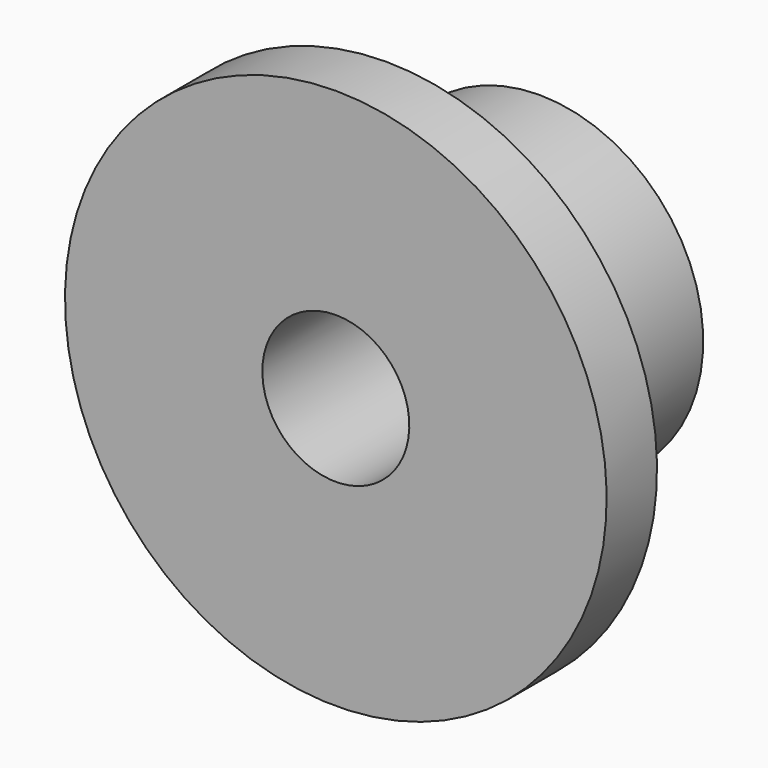
from build123d import *

# Parameters (mm, degrees)
F0_W   = 15.167773
F0_H   = 25.785211
F0_H_2 = 21.740476
F0_W_2 = 46.13531
F2_R   = 18.396307


with BuildPart() as f1:
    # F0 (on Right) → F1 (revolve)
    with BuildSketch(Plane.YZ):
        with Locations((-53.719196, 52.328815)):
            Rectangle(F0_W, F0_H)
        with Locations((-53.719196, 28.565972)):
            Rectangle(F0_W, F0_H_2)
        with Locations((-23.067655, 28.565972)):
            Rectangle(F0_W_2, F0_H_2)
    revolve(axis=Axis((0, -30.651541, 0), (0, -1, 0)))

    # F2
    f2_edges = [f1.edges().sort_by_distance(p)[0] for p in [
        (0, -46.13531, -39.43621),
    ]]
    fillet(f2_edges, radius=F2_R)


solid = f1.part
